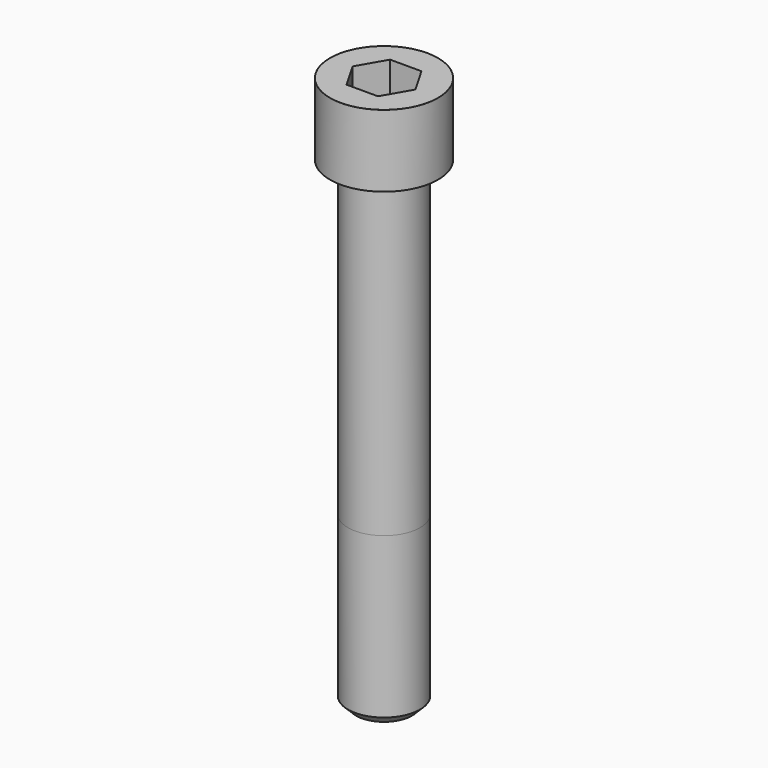
from build123d import *

# Parameters (mm, degrees)
POCKET_DEPTH = 27.15


with BuildPart() as part:
    # Sketch → Revolve (revolve)
    with BuildSketch(Plane.YZ):
        with BuildLine():
            Line((17.999, 0), (27, 0))
            Line((27, 0), (27, 35.97229))
            ThreePointArc((27, 35.97229), (26.991884, 35.991884), (26.97229, 36))
            Line((26.97229, 36), (0, 36))
            Line((0, -240), (0, 36))
            Line((14, -240), (0, -240))
            Line((18, -236), (14, -240))
            Line((18, -156), (18, -236))
            Line((17.999, 0), (18, -156))
        make_face()
    revolve(axis=Axis((0, 0, 0), (0, 0, 1)))

    # Sketch001 → Pocket (cut)
    with BuildSketch(Plane.XY.offset(36)):
        Polygon((15.67506, 0), (7.83753, 13.575), (-7.83753, 13.575), (-15.67506, 0), (-7.83753, -13.575), (7.83753, -13.575), align=None)
    extrude(amount=-POCKET_DEPTH, mode=Mode.SUBTRACT)


solid = part.part
